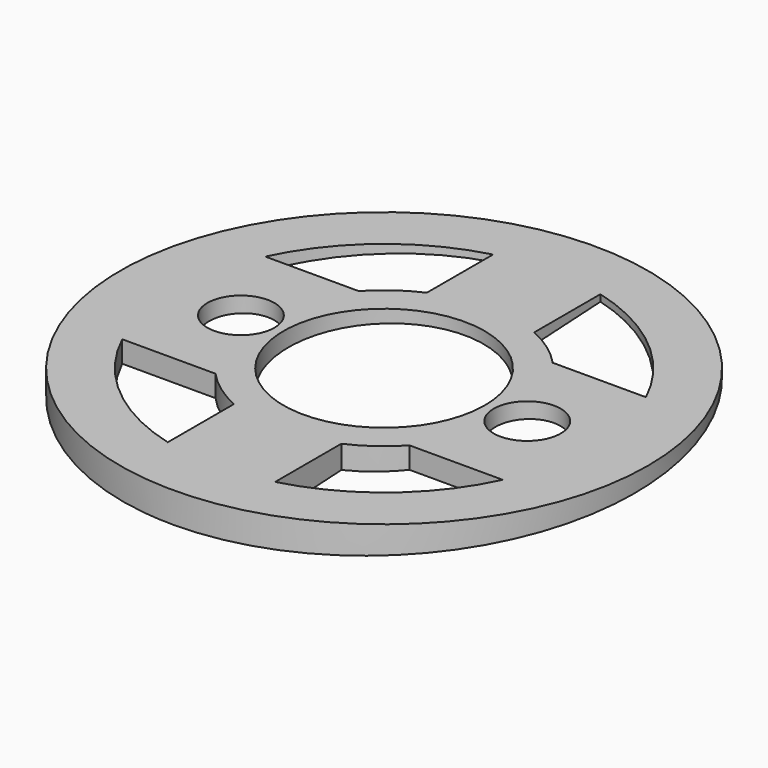
from build123d import *

# Parameters (mm, degrees)
F0_R     = 14.75
F0_R_2   = 5.625
F1_DEPTH = 1.7
F2_D     = 3.75
F4_DEPTH = 15


with BuildPart() as f1:
    # F0 (on Top) → F1 (new body)
    with BuildSketch(Plane.XY):
        Circle(F0_R)
        with BuildLine():
            ThreePointArc((10.633085, 5), (11.467372, 2.561616), (11.75, 0))
            ThreePointArc((11.75, 0), (11.467372, -2.561616), (10.633085, -5))
            ThreePointArc((10.633085, -5), (7.521932, -9.026796), (3, -11.360568))
            ThreePointArc((3, -11.360568), (0, -11.75), (-3, -11.360568))
            ThreePointArc((-3, -11.360568), (-7.521932, -9.026796), (-10.633085, -5))
            ThreePointArc((-10.633085, -5), (-11.75, 0), (-10.633085, 5))
            ThreePointArc((-10.633085, 5), (-7.521932, 9.026796), (-3, 11.360568))
            ThreePointArc((-3, 11.360568), (0, 11.75), (3, 11.360568))
            ThreePointArc((3, 11.360568), (7.521932, 9.026796), (10.633085, 5))
        make_face(mode=Mode.SUBTRACT)
        with BuildLine():
            ThreePointArc((7.375, 0), (6.869236, 2.684069), (5.421312, 5))
            ThreePointArc((5.421312, 5), (4.299318, 5.992202), (3, 6.737256))
            ThreePointArc((3, 6.737256), (0, 7.375), (-3, 6.737256))
            ThreePointArc((-3, 6.737256), (-4.299318, 5.992202), (-5.421312, 5))
            ThreePointArc((-5.421312, 5), (-7.375, 0), (-5.421312, -5))
            ThreePointArc((-5.421312, -5), (-4.299318, -5.992202), (-3, -6.737256))
            ThreePointArc((-3, -6.737256), (0, -7.375), (3, -6.737256))
            ThreePointArc((3, -6.737256), (4.299318, -5.992202), (5.421312, -5))
            ThreePointArc((5.421312, -5), (6.869236, -2.684069), (7.375, 0))
        make_face()
        Circle(F0_R_2, mode=Mode.SUBTRACT)
        with BuildLine():
            Line((3, 6.737256), (3, 11.360568))
            ThreePointArc((3, 11.360568), (0, 11.75), (-3, 11.360568))
            Line((-3, 11.360568), (-3, 6.737256))
            ThreePointArc((-3, 6.737256), (0, 7.375), (3, 6.737256))
        make_face()
        with BuildLine():
            ThreePointArc((-3, -11.360568), (0, -11.75), (3, -11.360568))
            Line((3, -11.360568), (3, -6.737256))
            ThreePointArc((3, -6.737256), (0, -7.375), (-3, -6.737256))
            Line((-3, -6.737256), (-3, -11.360568))
        make_face()
        with BuildLine():
            ThreePointArc((10.633085, -5), (11.467372, -2.561616), (11.75, 0))
            ThreePointArc((11.75, 0), (11.467372, 2.561616), (10.633085, 5))
            Line((10.633085, 5), (5.421312, 5))
            ThreePointArc((5.421312, 5), (6.869236, 2.684069), (7.375, 0))
            ThreePointArc((7.375, 0), (6.869236, -2.684069), (5.421312, -5))
            Line((5.421312, -5), (10.633085, -5))
        make_face()
        with BuildLine():
            Line((-5.421312, 5), (-10.633085, 5))
            ThreePointArc((-10.633085, 5), (-11.75, 0), (-10.633085, -5))
            Line((-10.633085, -5), (-5.421312, -5))
            ThreePointArc((-5.421312, -5), (-7.375, 0), (-5.421312, 5))
        make_face()
    extrude(amount=F1_DEPTH)

    # F2 (through all)
    with Locations(Plane(origin=(0, 0, 0), x_dir=(1, 0, 0), z_dir=(0, 0, -1))):
        with Locations((-8, 0), (8, 0)):
            Hole(F2_D / 2)

    # F3 (on Right) → F4 (cut, symmetric)
    with BuildSketch(Plane.YZ):
        Polygon((14.75, 1.5), (-14.75, 0), (14.75, 0), align=None)
    extrude(amount=F4_DEPTH, both=True, mode=Mode.SUBTRACT)


solid = f1.part
